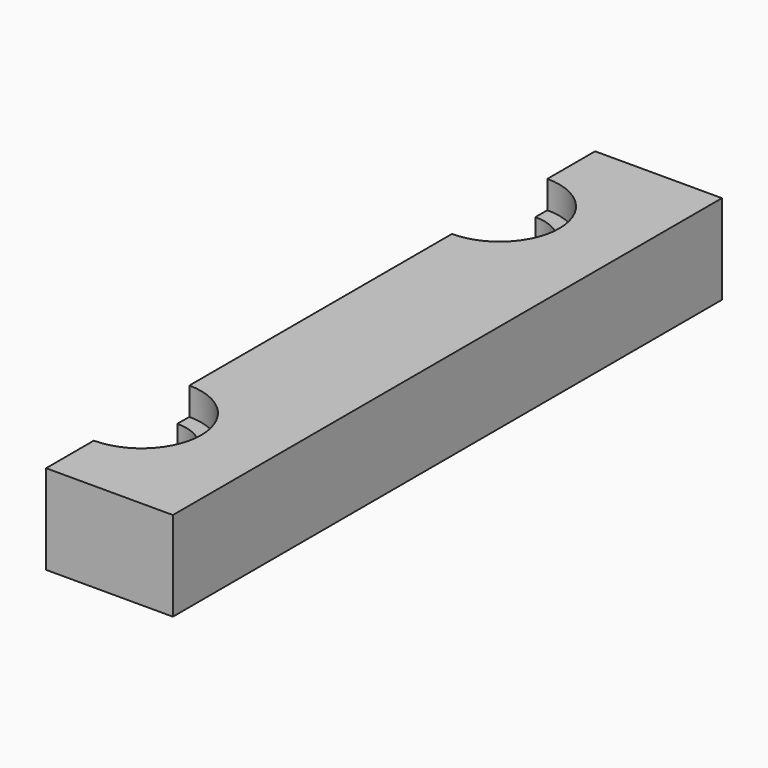
from build123d import *

# Parameters (mm, degrees)
PAD_DEPTH       = 6
POCKET_DEPTH    = 3.7
POCKET001_DEPTH = 3


with BuildPart() as part:
    # Sketch → Pad (new body, symmetric)
    with BuildSketch(Plane.XY):
        with BuildLine():
            Line((-8.5, 36), (-8.5, 46))
            Line((-8.5, 46), (8.5, 46))
            Line((8.5, 46), (8.5, -46))
            Line((8.5, -46), (-8.500001, -46))
            Line((-8.500001, -46), (-8.500001, -36))
            ThreePointArc((-8.500001, -36), (-2.5, -30), (-8.5, -24))
            Line((-8.5, 24), (-8.5, -24))
            ThreePointArc((-8.5, 24), (-2.5, 30), (-8.5, 36))
        make_face()
    extrude(amount=PAD_DEPTH, both=True)

    # Sketch001 → Pocket (cut)
    with BuildSketch(Plane.XY.offset(6)):
        with BuildLine():
            ThreePointArc((-8.500034, -38), (-0.500033, -30.000017), (-8.5, -22))
            Line((-8.5, -22), (-18.5, -21.999958))
            Line((-18.5, -21.999958), (-18.5, -38))
            Line((-18.5, -38), (-8.500034, -38))
        make_face()
        with BuildLine():
            ThreePointArc((-8.5, 22), (-0.5, 30), (-8.5, 38))
            Line((-8.5, 38), (-18.5, 38))
            Line((-18.5, 38), (-18.5, 22))
            Line((-18.5, 22), (-8.5, 22))
        make_face()
    extrude(amount=-POCKET_DEPTH, mode=Mode.SUBTRACT)

    # Sketch002 → Pocket001 (cut)
    with BuildSketch(Plane(origin=(0, 0, -6), x_dir=(1, 0, 0), z_dir=(0, 0, -1))):
        with BuildLine():
            ThreePointArc((-8.5, 22), (-0.5, 30), (-8.5, 38))
            Line((-8.5, 38), (-24.5, 38))
            Line((-24.5, 38), (-24.5, 22))
            Line((-24.5, 22), (-8.5, 22))
        make_face()
        with BuildLine():
            ThreePointArc((-8.5, -38), (-0.5, -30), (-8.5, -22))
            Line((-8.5, -22), (-24.5, -22))
            Line((-24.5, -22), (-24.5, -38))
            Line((-24.5, -38), (-8.5, -38))
        make_face()
    extrude(amount=-POCKET001_DEPTH, mode=Mode.SUBTRACT)


solid = part.part
